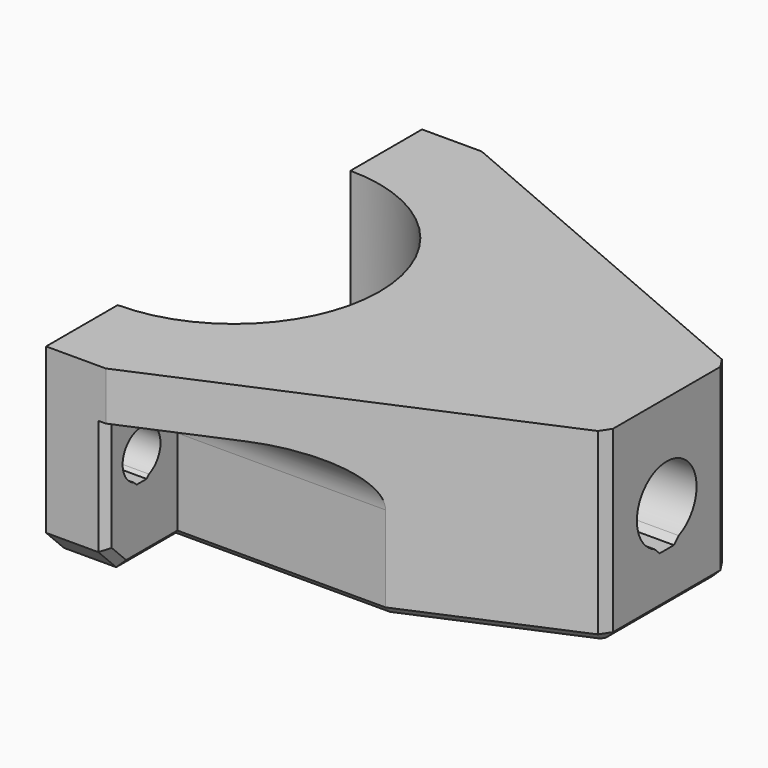
from build123d import *

# Parameters (mm, degrees)
PAD002_DEPTH    = 12.5
POCKET_DEPTH    = 23
SKETCH006_R     = 5
POCKET001_DEPTH = 13.8201293065
SKETCH007_R     = 3.175
POCKET002_DEPTH = 236.4162459853
POCKET003_DEPTH = 50
POCKET004_DEPTH = 236.4162459853
POCKET005_DEPTH = 13.8201293065
CHAMFER_SIZE    = 3
CHAMFER001_SIZE = 1


with BuildPart() as part:
    # Sketch004 → Pad002 (new body, symmetric)
    with BuildSketch(Plane.XY):
        with BuildLine():
            ThreePointArc((0, -19.5), (19.5, 0), (0, 19.5))
            Line((0, 31.5), (0, 19.5))
            Line((0, 31.5), (8, 31.5))
            Line((58, 10), (8, 31.5))
            Line((58, -10), (58, 10))
            Line((8, -31.5), (58, -10))
            Line((0, -31.5), (8, -31.5))
            Line((0, -19.5), (0, -31.5))
        make_face()
    extrude(amount=PAD002_DEPTH, both=True)

    # Sketch005 (on Face9 of Pad002) → Pocket (cut)
    with BuildSketch(Plane(origin=(0, 0, -12.5), x_dir=(1, 0, 0), z_dir=(0, 0, -1))):
        Polygon((44.1798706935, 0), (44.1798706935, 10.5), (30.5, 16.3823443982), (25.5, 16.3823443982), (25.5, 0), align=None)
    pocket = extrude(amount=-POCKET_DEPTH, mode=Mode.SUBTRACT)

    # Mirrored: Pocket across Sketch005 H_Axis
    add(pocket.mirror(Plane(origin=(0, 0, -12.5), x_dir=(0, 0, -1), z_dir=(0, -1, 0))), mode=Mode.SUBTRACT)

    # Sketch006 (on Face9 of Mirrored) → Pocket001 (cut)
    with BuildSketch(Plane.YZ.offset(58)):
        Circle(SKETCH006_R)
    extrude(amount=-POCKET001_DEPTH, mode=Mode.SUBTRACT)

    # Sketch007 (on Face1 of Pocket001) → Pocket002 (cut, through all)
    with BuildSketch(Plane(origin=(0, 0, 0), x_dir=(0, -1, 0), z_dir=(-1, 0, 0))):
        with Locations((25.5, 0)):
            Circle(SKETCH007_R)
    pocket002 = extrude(amount=-POCKET002_DEPTH, mode=Mode.SUBTRACT)

    # Mirrored001: Pocket002 across Sketch007 V_Axis
    add(pocket002.mirror(Plane(origin=(0, 0, 0), x_dir=(-1, 0, 0), z_dir=(0, -1, 0))), mode=Mode.SUBTRACT)

    # Sketch008 (on Face10 of Mirrored001) → Pocket003 (cut)
    with BuildSketch(Plane.YZ.offset(58)):
        with BuildLine():
            ThreePointArc((-19.5, 0), (-21.2573593129, 4.2426406871), (-25.5, 6))
            Line((-25.5, 6), (-31.5, 6))
            Line((-31.5, 6), (-31.5, -12.5))
            Line((-31.5, -12.5), (-19.5, -12.5))
            Line((-19.5, -12.5), (-19.5, 0))
        make_face()
    pocket003 = extrude(amount=-POCKET003_DEPTH, mode=Mode.SUBTRACT)

    # Mirrored002: Pocket003 across Sketch008 V_Axis
    add(pocket003.mirror(Plane(origin=(58, 0, 0), x_dir=(1, 0, 0), z_dir=(0, 1, 0))), mode=Mode.SUBTRACT)

    # Sketch009 (on Face1 of Mirrored002) → Pocket004 (cut, through all)
    with BuildSketch(Plane(origin=(0, 0, 0), x_dir=(0, -1, 0), z_dir=(-1, 0, 0))):
        Polygon((24.25, -2.918582704), (24.65, -3.318582704), (26.35, -3.318582704), (26.75, -2.918582704), align=None)
    pocket004 = extrude(amount=-POCKET004_DEPTH, mode=Mode.SUBTRACT)

    # Mirrored003: Pocket004 across Sketch009 V_Axis
    add(pocket004.mirror(Plane(origin=(0, 0, 0), x_dir=(-1, 0, 0), z_dir=(0, -1, 0))), mode=Mode.SUBTRACT)

    # Sketch010 (on Face16 of Mirrored003) → Pocket005 (cut)
    with BuildSketch(Plane.YZ.offset(58)):
        Polygon((-2, -4.582575695), (2, -4.582575695), (1.2, -5.382575695), (-1.2, -5.382575695), align=None)
    extrude(amount=-POCKET005_DEPTH, mode=Mode.SUBTRACT)

    # Chamfer
    chamfer_edges = [part.edges().sort_by_distance(p)[0] for p in [
        (4, -31.5, -12.5),
        (4, 31.5, -12.5),
    ]]
    chamfer(chamfer_edges, length=CHAMFER_SIZE)

    # Chamfer001
    chamfer001_edges = [part.edges().sort_by_distance(p)[0] for p in [
        (21.953488, -19.5, -12.5),
        (8, -24, -12.5),
        (8, -30, -11),
        (8, -31.5, -1.75),
        (46.953488, -14.75, -12.5),
        (58, 0, -12.5),
        (46.953488, 14.75, -12.5),
        (21.953488, 19.5, -12.5),
        (8, 24, -12.5),
        (8, 30, -11),
        (8, 31.5, -1.75),
        (58, -10, 0),
        (58, 10, 0),
    ]]
    chamfer(chamfer001_edges, length=CHAMFER001_SIZE)


solid = part.part
